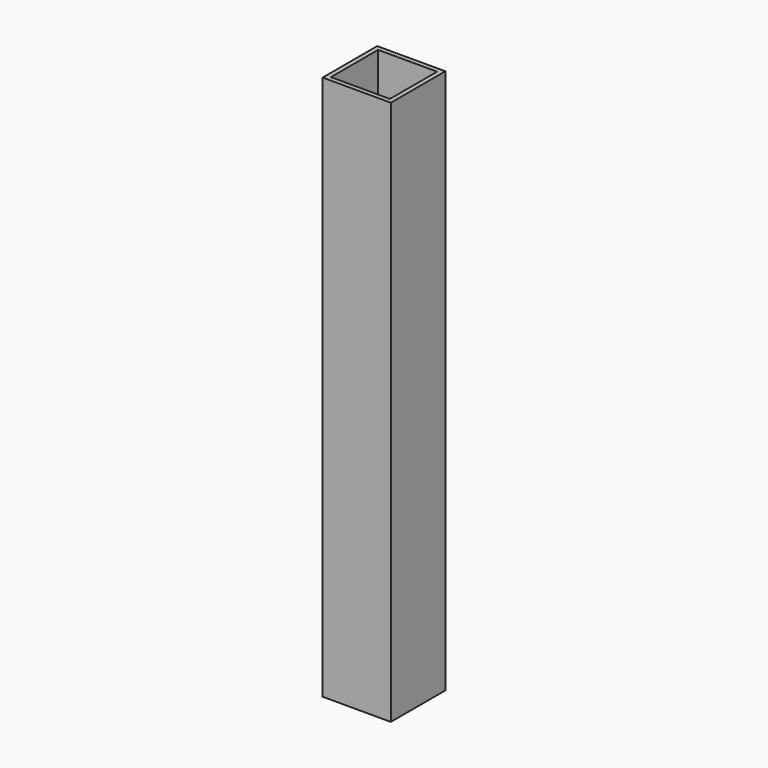
from build123d import *

# Parameters (mm, degrees)
F0_W          = 15
F0_H          = 15
F1_DEPTH      = 60
F1_DEPTH_BACK = 60
F2_W          = 13
F2_H          = 13
F3_DEPTH      = 50


with BuildPart() as f1:
    # F0 (on Top) → F1 (new body, two sides)
    with BuildSketch(Plane.XY) as f1_sk:
        Rectangle(F0_W, F0_H)
    extrude(amount=F1_DEPTH)
    extrude(f1_sk.sketch, amount=-F1_DEPTH_BACK)

    # F2 (on face) → F3 (cut)
    with BuildSketch(Plane.XY.offset(60)):
        Rectangle(F2_W, F2_H)
    extrude(amount=-F3_DEPTH, mode=Mode.SUBTRACT)


solid = f1.part
